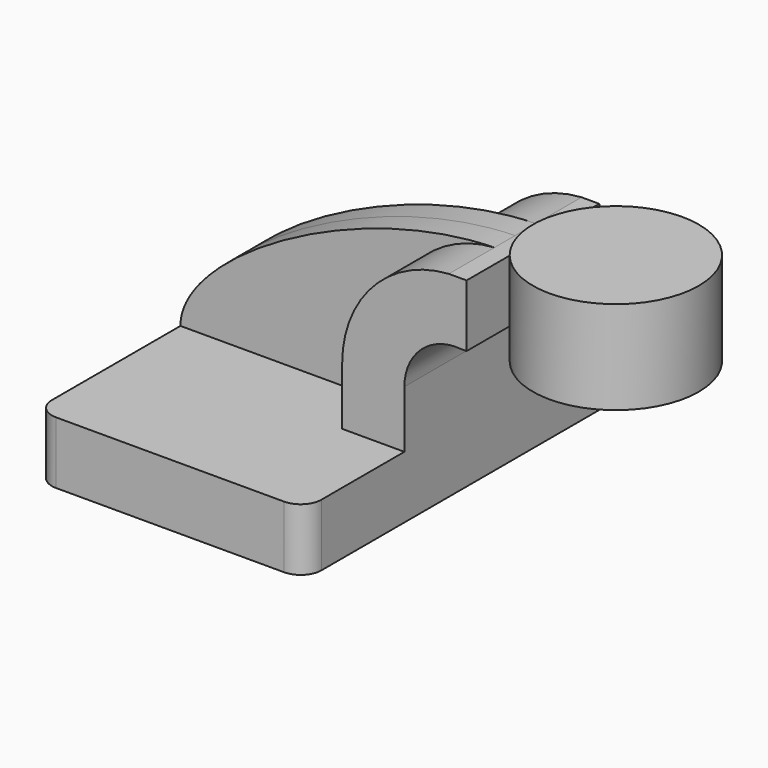
from build123d import *

# Parameters (mm, degrees)
F1_DEPTH = 63.5
F2_DEPTH = 25.4
F3_DEPTH = 7.9375
F5_R     = 6.35
F6_R     = 6.35


with BuildPart() as f1:
    # F0 (on Front) → F1 (new body, symmetric)
    with BuildSketch(Plane.XZ):
        Polygon((22.225, 9.525), (-41.275, 9.525), (-41.275, -9.525), (41.275, -9.525), (41.275, 9.525), align=None)
    extrude(amount=F1_DEPTH, both=True)

    # F0 (on Front) → F2 (join, symmetric)
    with BuildSketch(Plane.XZ):
        with BuildLine():
            Line((22.225, 27.073585), (22.225, 9.525))
            Line((22.225, 9.525), (41.275, 9.525))
            Line((41.275, 9.525), (41.275, 27.073585))
            ThreePointArc((41.275, 27.073585), (46.477334, 38.825599), (58.674663, 42.8752))
            Line((58.674663, 42.8752), (60.325, 42.8752))
            Line((60.325, 42.8752), (60.325, 61.9252))
            Line((60.325, 61.9252), (54.887132, 61.9252))
            ThreePointArc((54.887132, 61.9252), (31.666806, 50.955848), (22.225, 27.073585))
        make_face()
    extrude(amount=F2_DEPTH, both=True)

    # F0 (on Front) → F3 (join, symmetric)
    with BuildSketch(Plane.XZ):
        with BuildLine():
            add(Edge.make_bspline(
                [(-41.275, 9.525), (-41.277573, 29.97333), (11.593641, 61.00316), (54.887132, 61.9252)],
                knots=[0, 0, 0, 0, 109.512266, 109.512266, 109.512266, 109.512266], degree=3))
            Line((-41.275, 9.525), (22.225, 9.525))
            Line((22.225, 9.525), (22.225, 27.073585))
            ThreePointArc((22.225, 27.073585), (31.666806, 50.955848), (54.887132, 61.9252))
        make_face()
    extrude(amount=F3_DEPTH, both=True)

    # F0 (on Front) → F4 (revolve)
    with BuildSketch(Plane.XZ):
        Polygon((85.725, 66.675), (85.725, 61.9252), (85.725, 42.8752), (85.725, 38.1), (111.125, 38.1), (111.125, 66.675), align=None)
    revolve(axis=Axis((85.725, 0, 52.3875), (0, 0, 1)))

    # F5
    f5_edges = [f1.edges().sort_by_distance(p)[0] for p in [
        (41.275, -63.5, 0),
    ]]
    fillet(f5_edges, radius=F5_R)

    # F6
    f6_edges = [f1.edges().sort_by_distance(p)[0] for p in [
        (-41.275, -63.5, 0),
        (41.275, 63.5, 0),
        (-41.275, 63.5, 0),
    ]]
    fillet(f6_edges, radius=F6_R)


solid = f1.part
